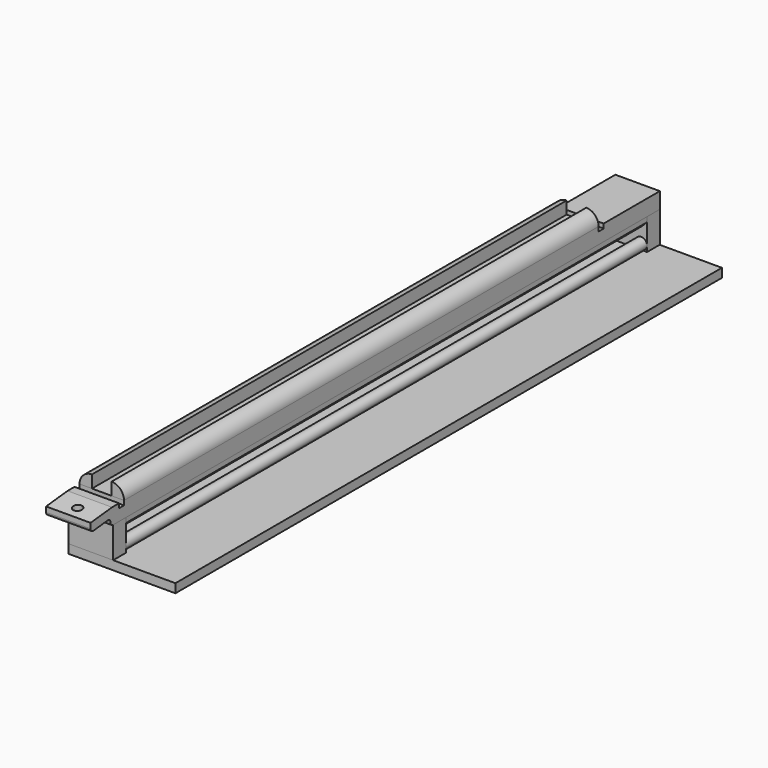
from build123d import *

# Parameters (mm, degrees)
F0_W      = 50
F0_H      = 18
F1_DEPTH  = 800
F2_W      = 50
F2_H      = 7
F3_DEPTH  = 5
F6_DEPTH  = 50.001
F7_R      = 4
F7_R_2    = 5.1
F8_DEPTH  = 96.8844033339
F11_R     = 5
F11_R_2   = 4
F12_DEPTH = 25
F14_DEPTH = 753
F15_DEPTH = 86
F16_R     = 3.6
F17_W     = 50
F17_H     = 35
F18_DEPTH = 18
F19_W     = 50
F19_H     = 18
F20_DEPTH = 35
F21_R     = 6.5
F22_DEPTH = 733
F24_DEPTH = 768
F25_W     = 11.5
F25_H     = 11.5
F26_DEPTH = 732.3
F27_SIZE  = 6


with BuildPart() as f1:
    # F0 (on Front) → F1 (new body)
    with BuildSketch(Plane.XZ):
        Rectangle(F0_W, F0_H)
    extrude(amount=F1_DEPTH)

    # F2 (on face) → F3 (cut)
    with BuildSketch(Plane.XY.offset(9)):
        with Locations((0, -82.5)):
            Rectangle(F2_W, F2_H)
        with Locations((0, -756.5)):
            Rectangle(F2_W, F2_H)
    extrude(amount=-F3_DEPTH, mode=Mode.SUBTRACT)

    # F5 (on face) → F6 (cut, through all)
    with BuildSketch(Plane.YZ.offset(25)):
        Polygon((-771.0854771431, -19.232556054), (-772.093444324, -1.0828532979), (-809.1200472693, -4.9017417687), (-809.1200472693, -19.232556054), align=None)
        Polygon((-805.0609909826, 14.6067917183), (-804.660934381, 5.4053862448), (-715.4473347664, 14.6067917183), align=None)
    extrude(amount=-F6_DEPTH, mode=Mode.SUBTRACT)

    # F7 (on face) → F8 (cut, through all)
    with BuildSketch(Plane(origin=(0, -9.0212528766, 87.4669032326), x_dir=(1, 0, 0), z_dir=(0, -0.1025948042, 0.9947232309))):
        with Locations((0, -1003.4729398338)):
            Circle(F7_R)
        with Locations((0, -782.0583581924)):
            Circle(F7_R_2)
    extrude(amount=-F8_DEPTH, mode=Mode.SUBTRACT)

    # F11 (on face) → F12 (cut)
    with BuildSketch(Plane.XY.offset(9)):
        with Locations((0, 548.4895875181)):
            Circle(F11_R)
        with Locations((0, 720.4001545906)):
            Circle(F11_R)
        with Locations((0, -720.1100637757)):
            Circle(F11_R_2)
        with Locations((-0.2570097061, -685.8340977757)):
            Circle(F11_R_2)
        with Locations((-0.2570097061, -653.4830787757)):
            Circle(F11_R_2)
        with Locations((-0.2570097061, -622.9471107757)):
            Circle(F11_R_2)
        with Locations((-0.2570097061, -594.1250787757)):
            Circle(F11_R_2)
        with Locations((-0.2570097061, -566.9208637757)):
            Circle(F11_R_2)
        with Locations((-0.2570097061, -541.2440337757)):
            Circle(F11_R_2)
        with Locations((-0.2570097061, -517.0070817757)):
            Circle(F11_R_2)
        with Locations((-0.2570097061, -494.1316327757)):
            Circle(F11_R_2)
        with Locations((-0.2570097061, -472.5391377757)):
            Circle(F11_R_2)
        with Locations((-0.2570097061, -452.1586287757)):
            Circle(F11_R_2)
        with Locations((-0.2570097061, -432.9225807757)):
            Circle(F11_R_2)
        with Locations((-0.2570097061, -414.7655377757)):
            Circle(F11_R_2)
        with Locations((-0.2570097061, -397.6289327757)):
            Circle(F11_R_2)
        with Locations((-0.2570097061, -381.4528197757)):
            Circle(F11_R_2)
        with Locations((-0.2570097061, -366.1848357757)):
            Circle(F11_R_2)
        with Locations((-0.2570097061, -351.7739917757)):
            Circle(F11_R_2)
        with Locations((-0.2570097061, -338.1720567757)):
            Circle(F11_R_2)
        with Locations((-0.2570097061, -325.3328667757)):
            Circle(F11_R_2)
        with Locations((-0.2570097061, -313.2150797757)):
            Circle(F11_R_2)
        with Locations((-0.2570097061, -301.7766667757)):
            Circle(F11_R_2)
    extrude(amount=-F12_DEPTH, mode=Mode.SUBTRACT)

    # F16
    f16_edges = [f1.edges().sort_by_distance(p)[0] for p in [
        (0, -772.093444, -1.082853),
        (0, -771.653755, -9),
        (0, -800, -3.961109),
    ]]
    fillet(f16_edges, radius=F16_R)


with BuildPart() as f14:
    # F13 (on Front) → F14 (new body)
    with BuildSketch(Plane.XZ):
        with BuildLine():
            ThreePointArc((-11, 23), (-20.8994949366, 18.8994949366), (-25, 9))
            Line((-25, 9), (-11, 9))
            Line((-11, 9), (-11, 23))
        make_face()
    extrude(amount=F14_DEPTH)


with BuildPart() as f14b:
    # F13 (on Front) → F14, piece 2 (new body)
    with BuildSketch(Plane.XZ):
        with BuildLine():
            ThreePointArc((25, 9), (20.8994949366, 18.8994949366), (11, 23))
            Line((11, 23), (11, 9))
            Line((11, 9), (25, 9))
        make_face()
    extrude(amount=F14_DEPTH)


with BuildPart() as f15_tool:
    # F13 (on Front) → F15 (new body)
    with BuildSketch(Plane.XZ):
        with BuildLine():
            ThreePointArc((-11, 23), (-20.8994949366, 18.8994949366), (-25, 9))
            Line((-25, 9), (-11, 9))
            Line((-11, 9), (-11, 23))
        make_face()
        with BuildLine():
            ThreePointArc((25, 9), (20.8994949366, 18.8994949366), (11, 23))
            Line((11, 23), (11, 9))
            Line((11, 9), (25, 9))
        make_face()
    extrude(amount=F15_DEPTH)


with BuildPart() as f14_1:
    add(f14.part)

    # F15: cut by f15_tool
    add(f15_tool.part, mode=Mode.SUBTRACT)


with BuildPart() as f14b_1:
    add(f14b.part)

    # F15: cut by f15_tool
    add(f15_tool.part, mode=Mode.SUBTRACT)


with BuildPart() as f18:
    # F17 (on Front) → F18 (new body)
    with BuildSketch(Plane.XZ):
        with Locations((0, -26.5)):
            Rectangle(F17_W, F17_H)
    extrude(amount=F18_DEPTH)


with BuildPart() as f20:
    # F19 (on face) → F20 (new body)
    with BuildSketch(Plane(origin=(0, 0, -9), x_dir=(1, 0, 0), z_dir=(0, 0, -1))):
        with Locations((0, 759.2481385776)):
            Rectangle(F19_W, F19_H)
    extrude(amount=F20_DEPTH)


with BuildPart() as f22:
    # F21 (on face) → F22 (new body)
    with BuildSketch(Plane(origin=(0, -750.2481385776, 0), x_dir=(-1, 0, 0), z_dir=(0, 1, 0))):
        with Locations((-18.5, -37.5)):
            Circle(F21_R)
    extrude(amount=F22_DEPTH)


with BuildPart() as f24:
    # F23 (on face) → F24 (new body)
    with BuildSketch(Plane.XZ.offset(768.2481385776)):
        Polygon((25, -44), (-25, -44), (-25, -54), (95, -54), (95, -44), align=None)
    extrude(amount=-F24_DEPTH)


with BuildPart() as f26:
    # F25 (on face) → F26 (new body)
    with BuildSketch(Plane(origin=(0, -750.2481385776, 0), x_dir=(-1, 0, 0), z_dir=(0, 1, 0))):
        with Locations((-19.25, -14.75)):
            Rectangle(F25_W, F25_H)
    extrude(amount=F26_DEPTH)

    # F27
    f27_edges = [f26.edges().sort_by_distance(p)[0] for p in [
        (25, -384.098139, -20.5),
    ]]
    chamfer(f27_edges, length=F27_SIZE)


solid = Compound([f1.part, f14_1.part, f14b_1.part, f18.part, f20.part, f22.part, f24.part, f26.part])
